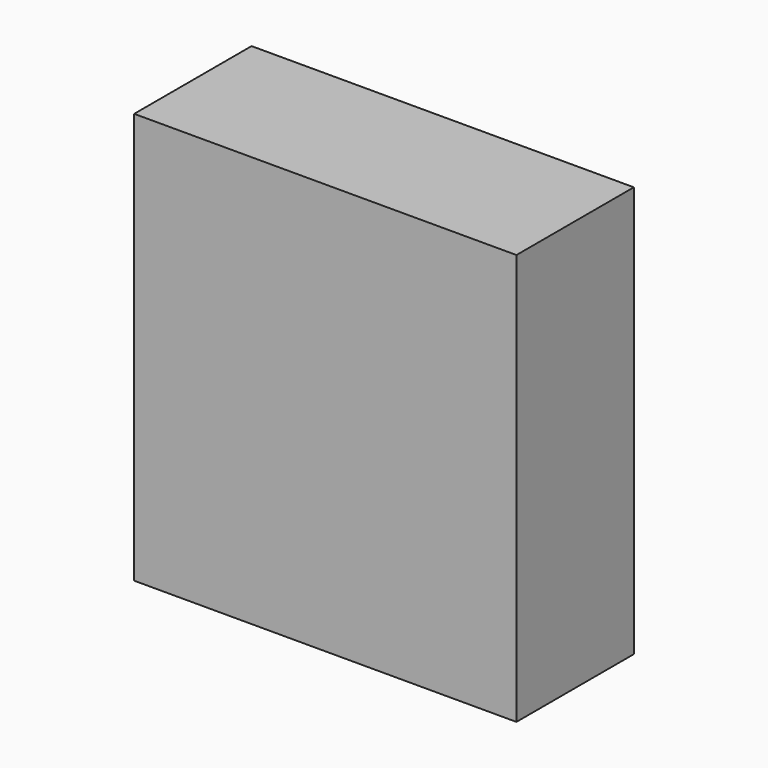
from build123d import *

# Parameters (mm, degrees)
F0_W     = 36.3049656153
F0_H     = 24.8948708177
F1_DEPTH = 25.4


with BuildPart() as f1:
    # F0 (on Front) → F1 (new body)
    with BuildSketch(Plane.XZ):
        with Locations((18.1524828076, 12.4474354088)):
            Rectangle(F0_W, F0_H)
        Polygon((0, 47.7151572704), (-14.3145769835, 47.7151572704), (-14.3145769835, -23.4426409006), (51.8642663956, -23.4426409006), (51.8642663956, 24.8948708177), (36.3049656153, 24.8948708177), (36.3049656153, 0), (0, 0), (0, 24.8948708177), align=None)
        Polygon((18.7748447061, 47.7151572704), (0, 47.7151572704), (0, 24.8948708177), (36.3049656153, 24.8948708177), (51.8642663956, 24.8948708177), (51.8642663956, 47.7151572704), (30.4961651564, 47.7151572704), align=None)
    extrude(amount=F1_DEPTH)


solid = f1.part
